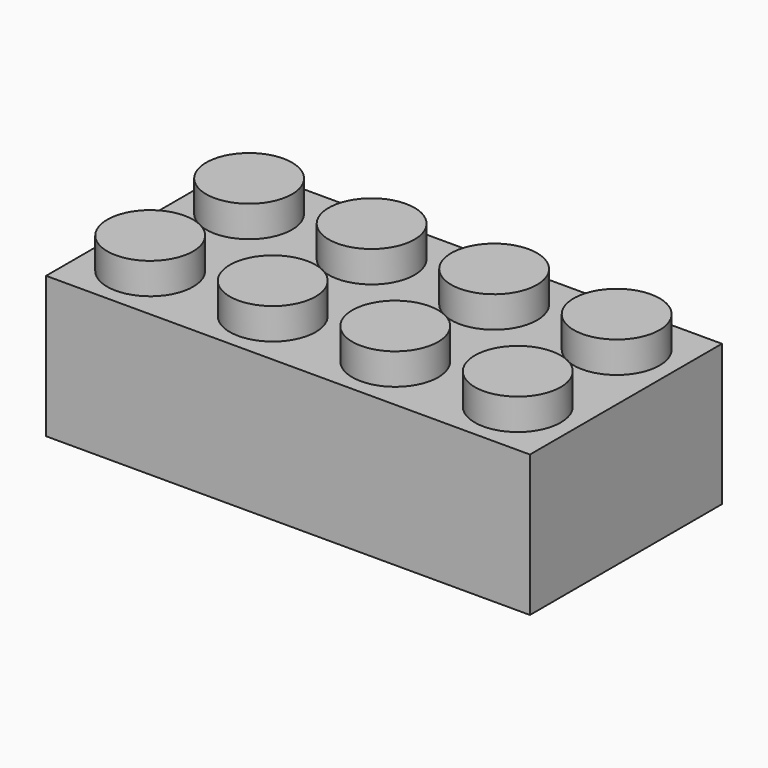
from build123d import *

# Parameters (mm, degrees)
F0_W     = 31.496
F0_H     = 15.621
F1_DEPTH = 9.1948
F3_R     = 2.79439
F4_DEPTH = 2.032
F5_W     = 28.9306
F5_H     = 13.208
F6_DEPTH = 8.6614
F7_R     = 3.0861
F8_DEPTH = 8.6614


with BuildPart() as f1:
    # F0 (on Top) → F1 (new body)
    with BuildSketch(Plane.XY):
        Rectangle(F0_W, F0_H)
    extrude(amount=F1_DEPTH)

    # F3 (on offset) → F4 (join)
    with BuildSketch(Plane.XY.offset(9.1948)):
        with Locations((-11.9507, 3.9624)):
            Circle(F3_R)
        with Locations((-3.9751, 3.9624)):
            Circle(F3_R)
        with Locations((4.0005, 3.9624)):
            Circle(F3_R)
        with Locations((11.9761, 3.9624)):
            Circle(F3_R)
        with Locations((-11.9507, -4.08486)):
            Circle(F3_R)
        with Locations((-3.9751, -4.08486)):
            Circle(F3_R)
        with Locations((4.0005, -4.08486)):
            Circle(F3_R)
        with Locations((11.9761, -4.08486)):
            Circle(F3_R)
    extrude(amount=F4_DEPTH)

    # F5 (on Top) → F6 (cut)
    with BuildSketch(Plane.XY):
        Rectangle(F5_W, F5_H)
    extrude(amount=F6_DEPTH, mode=Mode.SUBTRACT)

    # F7 (on Top) → F8 (join)
    with BuildSketch(Plane.XY):
        Circle(F7_R)
        with Locations((8.7122, 0)):
            Circle(F7_R)
        with Locations((-8.7122, 0)):
            Circle(F7_R)
    extrude(amount=F8_DEPTH)


solid = f1.part
